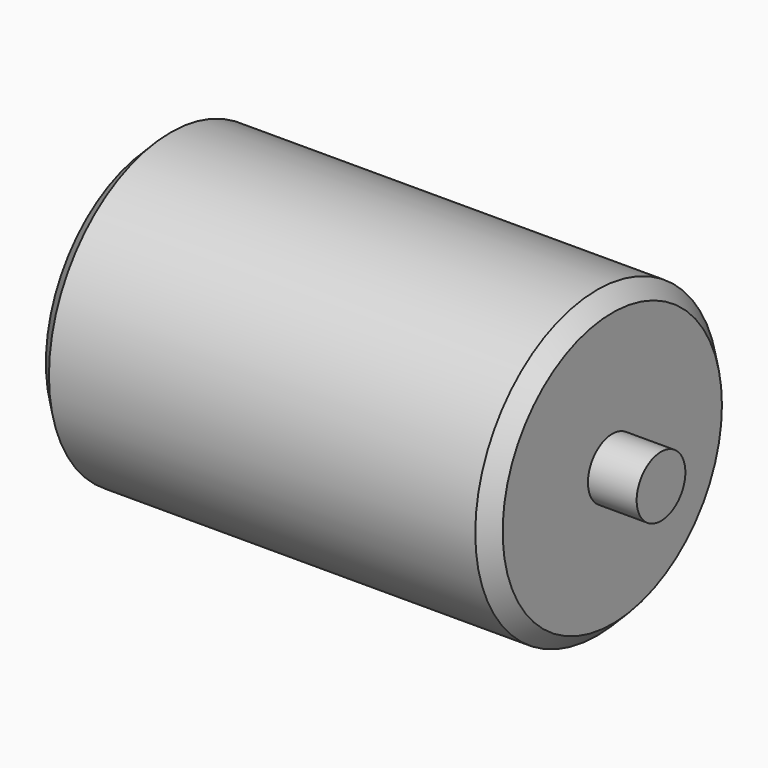
from build123d import *

# Parameters (mm, degrees)
F2_SIZE = 5


with BuildPart() as f1:
    # F0 (on Top) → F1 (revolve)
    with BuildSketch(Plane.XY):
        Polygon((-91, 0), (0, 0), (0, 50), (-75, 50), (-75, 10), (-91, 10), align=None)
        Polygon((0, 50), (0, 0), (91, 0), (91, 10), (75, 10), (75, 50), align=None)
    revolve(axis=Axis((-45.5, 0, 0), (1, 0, 0)))

    # F2
    f2_edges = [f1.edges().sort_by_distance(p)[0] for p in [
        (-75, -50, 0),
        (75, -50, 0),
    ]]
    chamfer(f2_edges, length=F2_SIZE)


solid = f1.part
